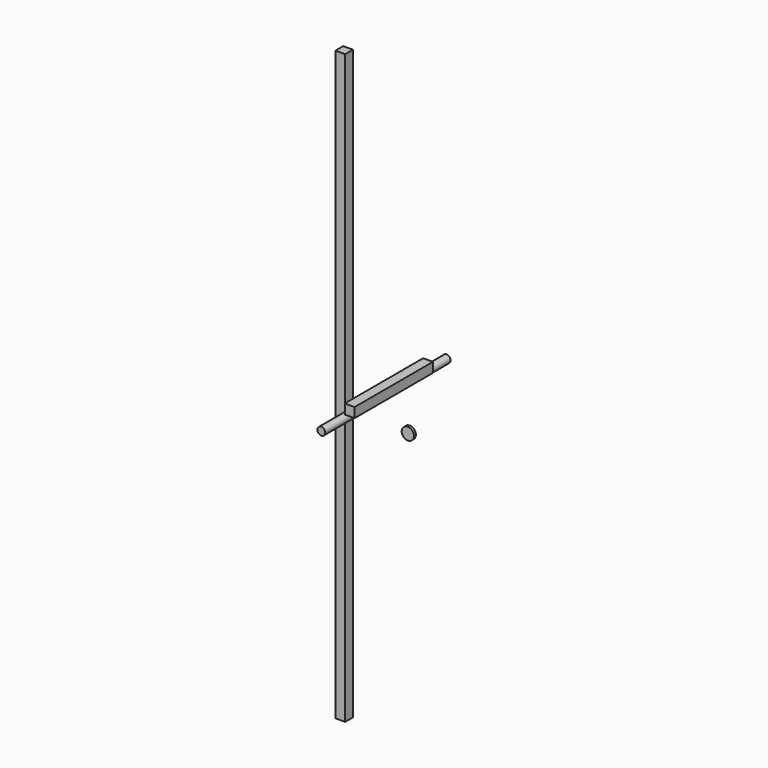
from build123d import *

# Parameters (mm, degrees)
F0_R     = 8
F1_DEPTH = 160
F2_W     = 20
F2_H     = 1200
F3_DEPTH = 20
F4_W     = 20
F4_H     = 20
F5_DEPTH = 200
F6_R     = 12.5
F7_DEPTH = 5


with BuildPart() as f1:
    # F0 (on Front) → F1 (new body, symmetric)
    with BuildSketch(Plane.XZ):
        Circle(F0_R)
    extrude(amount=F1_DEPTH, both=True)


with BuildPart() as f3:
    # F2 (on Front) → F3 (new body)
    with BuildSketch(Plane.XZ):
        with Locations((-73.321827, 0)):
            Rectangle(F2_W, F2_H)
    extrude(amount=F3_DEPTH)


with BuildPart() as f5:
    # F4 (on Front) → F5 (new body)
    with BuildSketch(Plane.XZ):
        with Locations((89.889774, 82.095655)):
            Rectangle(F4_W, F4_H)
    extrude(amount=F5_DEPTH)


with BuildPart() as f7:
    # F6 (on Front) → F7 (new body)
    with BuildSketch(Plane.XZ):
        with Locations((52.602101, -50.264247)):
            Circle(F6_R)
    extrude(amount=F7_DEPTH)


solid = Compound([f1.part, f3.part, f5.part, f7.part])
